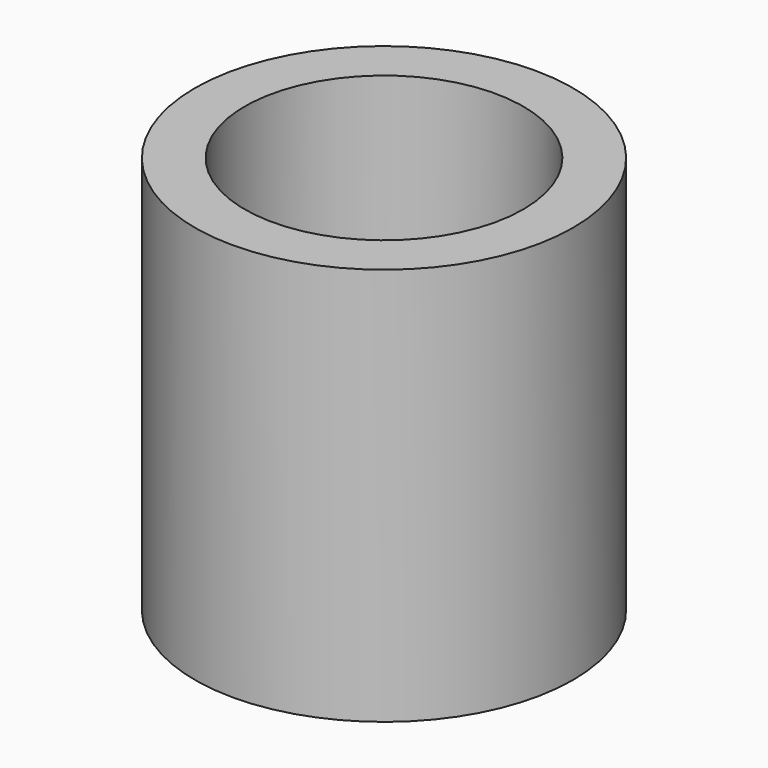
from build123d import *

# Parameters (mm, degrees)
SKETCH_R   = 3.8
SKETCH_R_2 = 2.8
PAD_DEPTH  = 8


with BuildPart() as part:
    # Sketch → Pad (new body)
    with BuildSketch(Plane.XY):
        Circle(SKETCH_R)
        Circle(SKETCH_R_2, mode=Mode.SUBTRACT)
    extrude(amount=PAD_DEPTH)


solid = part.part
